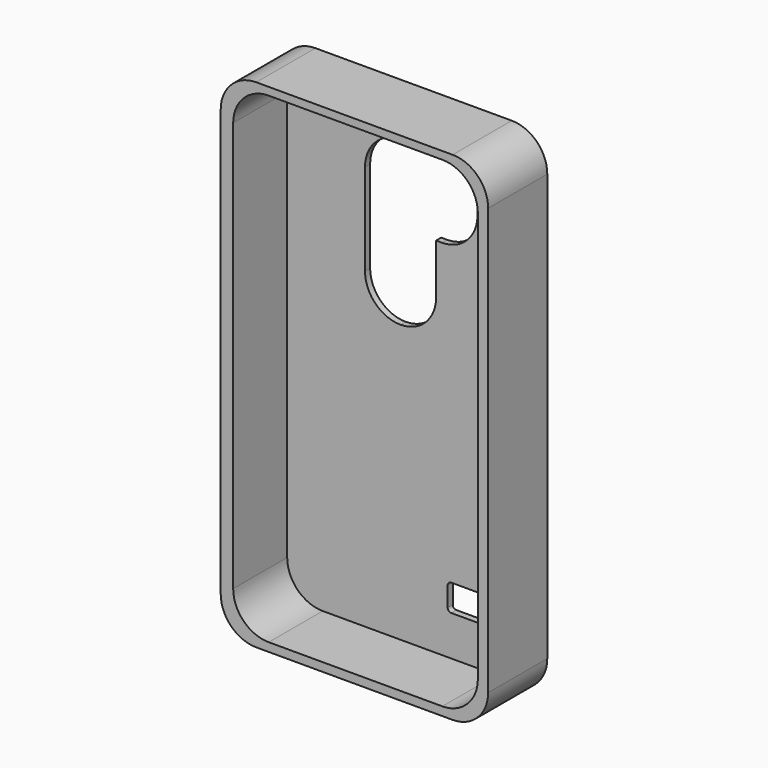
from build123d import *

# Parameters (mm, degrees)
F1_DEPTH = 20.8
F3_DEPTH = 19
F5_DEPTH = 25
F7_DEPTH = 25


with BuildPart() as f1:
    # F0 (on Front) → F1 (new body)
    with BuildSketch(Plane.XZ):
        with BuildLine():
            Line((27.470242, 70.997512), (-27.779758, 70.997512))
            ThreePointArc((-27.779758, 70.997512), (-34.850826, 68.06858), (-37.779758, 60.997512))
            Line((-37.779758, 60.997512), (-37.779758, -58.982488))
            ThreePointArc((-37.779758, -58.982488), (-34.850826, -66.053556), (-27.779758, -68.982488))
            Line((-27.779758, -68.982488), (27.470242, -68.982488))
            ThreePointArc((27.470242, -68.982488), (34.54131, -66.053556), (37.470242, -58.982488))
            Line((37.470242, -58.982488), (37.470242, 60.997512))
            ThreePointArc((37.470242, 60.997512), (34.54131, 68.06858), (27.470242, 70.997512))
        make_face()
    extrude(amount=F1_DEPTH)

    # F2 (on face) → F3 (cut)
    with BuildSketch(Plane.XZ.offset(20.8)):
        with BuildLine():
            Line((24.576889, 68.822538), (-24.272246, 68.822538))
            ThreePointArc((-24.272246, 68.822538), (-31.343314, 65.893605), (-34.272246, 58.822538))
            Line((-34.272246, 58.822538), (-34.272246, -56.564314))
            ThreePointArc((-34.272246, -56.564314), (-31.343314, -63.635382), (-24.272246, -66.564314))
            Line((-24.272246, -66.564314), (24.576889, -66.564314))
            ThreePointArc((24.576889, -66.564314), (31.647957, -63.635382), (34.576889, -56.564314))
            Line((34.576889, -56.564314), (34.576889, 58.822538))
            ThreePointArc((34.576889, 58.822538), (31.647957, 65.893605), (24.576889, 68.822538))
        make_face()
    extrude(amount=-F3_DEPTH, mode=Mode.SUBTRACT)

    # F4 (on face) → F5 (cut)
    with BuildSketch(Plane.XZ.offset(1.8)):
        with BuildLine():
            Line((9.265215, 57.322538), (-2.374785, 57.322538))
            ThreePointArc((-2.374785, 57.322538), (-9.445852, 54.393605), (-12.374785, 47.322538))
            Line((-12.374785, 47.322538), (-12.374785, 21.472538))
            ThreePointArc((-12.374785, 21.472538), (-9.445852, 14.40147), (-2.374785, 11.472538))
            ThreePointArc((-2.374785, 11.472538), (4.696283, 14.40147), (7.625215, 21.472538))
            Line((7.625215, 21.472538), (7.625215, 35.572538))
            Line((7.625215, 35.572538), (9.265215, 35.572538))
            ThreePointArc((9.265215, 35.572538), (16.336283, 38.50147), (19.265215, 45.572538))
            Line((19.265215, 45.572538), (19.265215, 47.322538))
            ThreePointArc((19.265215, 47.322538), (16.336283, 54.393605), (9.265215, 57.322538))
        make_face()
    extrude(amount=-F5_DEPTH, mode=Mode.SUBTRACT)

    # F6 (on face) → F7 (cut)
    with BuildSketch(Plane(origin=(0, 0, 0), x_dir=(-1, 0, 0), z_dir=(0, 1, 0))):
        with BuildLine():
            Line((-11.870242, -47.772488), (-22.780242, -47.772488))
            ThreePointArc((-22.780242, -47.772488), (-23.487349, -48.065381), (-23.780242, -48.772488))
            Line((-23.780242, -48.772488), (-23.780242, -54.292488))
            ThreePointArc((-23.780242, -54.292488), (-23.487349, -54.999594), (-22.780242, -55.292488))
            Line((-22.780242, -55.292488), (-11.870242, -55.292488))
            ThreePointArc((-11.870242, -55.292488), (-11.163135, -54.999594), (-10.870242, -54.292488))
            Line((-10.870242, -54.292488), (-10.870242, -48.772488))
            ThreePointArc((-10.870242, -48.772488), (-11.163135, -48.065381), (-11.870242, -47.772488))
        make_face()
    extrude(amount=-F7_DEPTH, mode=Mode.SUBTRACT)


solid = f1.part
